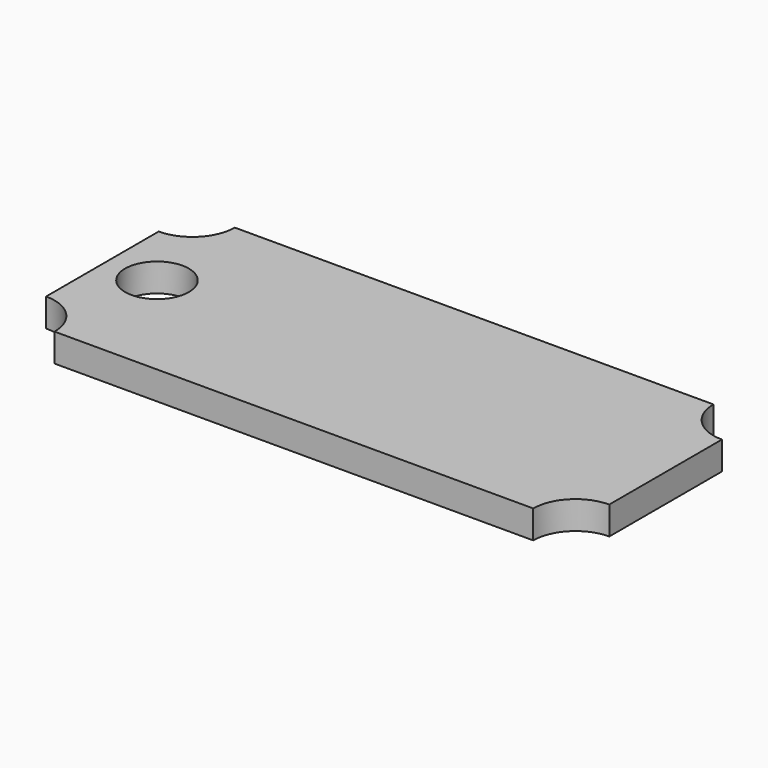
from build123d import *

# Parameters (mm, degrees)
F0_R     = 3.592825
F1_DEPTH = 3.175


with BuildPart() as f1:
    # F0 (on Top) → F1 (new body)
    with BuildSketch(Plane.XY):
        with BuildLine():
            ThreePointArc((0, 4.7625), (3.367596, 3.367596), (4.7625, 0))
            Line((4.7625, 0), (58.7375, 0))
            ThreePointArc((58.7375, 0), (60.132404, 3.367596), (63.5, 4.7625))
            Line((63.5, 4.7625), (63.5, 20.6375))
            ThreePointArc((63.5, 20.6375), (60.132404, 22.032404), (58.7375, 25.4))
            Line((58.7375, 25.4), (4.7625, 25.4))
            ThreePointArc((4.7625, 25.4), (3.367596, 22.032404), (0, 20.6375))
            Line((0, 20.6375), (0, 4.7625))
        make_face()
        with Locations((5.697345, 13.27287)):
            Circle(F0_R, mode=Mode.SUBTRACT)
        with BuildLine():
            ThreePointArc((0, 4.7625), (3.367596, 3.367596), (4.7625, 0))
            Line((4.7625, 0), (58.7375, 0))
            ThreePointArc((58.7375, 0), (60.132404, 3.367596), (63.5, 4.7625))
            Line((63.5, 4.7625), (63.5, 20.6375))
            ThreePointArc((63.5, 20.6375), (60.132404, 22.032404), (58.7375, 25.4))
            Line((58.7375, 25.4), (4.7625, 25.4))
            ThreePointArc((4.7625, 25.4), (3.367596, 22.032404), (0, 20.6375))
            Line((0, 20.6375), (0, 4.7625))
        make_face()
        with Locations((5.697345, 13.27287)):
            Circle(F0_R, mode=Mode.SUBTRACT)
    extrude(amount=F1_DEPTH)


solid = f1.part
